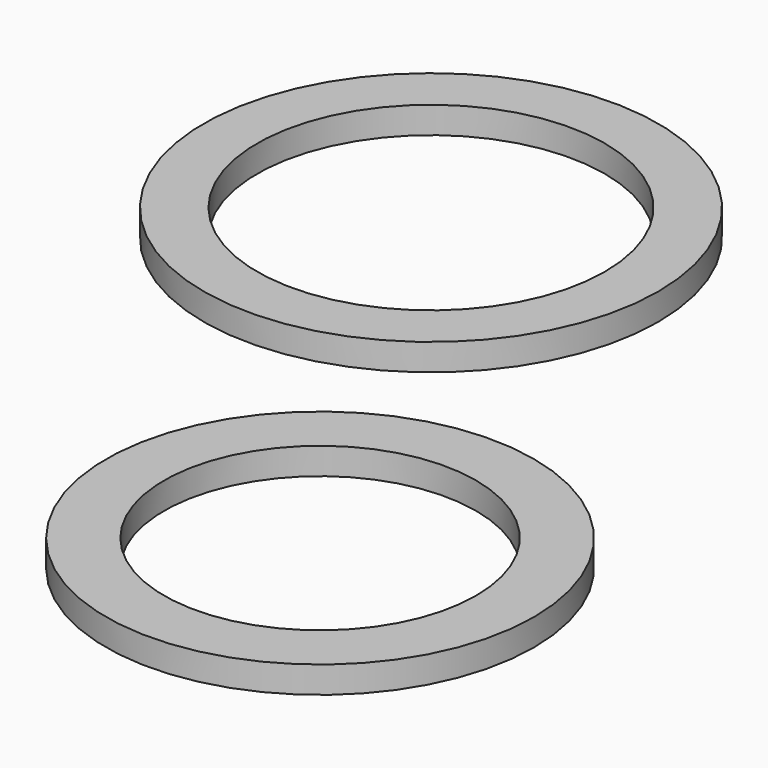
from build123d import *

# Parameters (mm, degrees)
F0_R     = 25.5
F0_R_2   = 19.5
F0_R_3   = 24
F0_R_4   = 17.5
F1_DEPTH = 3


with BuildPart() as f1:
    # F0 (on Top) → F1 (new body)
    with BuildSketch(Plane.XY):
        Circle(F0_R)
        Circle(F0_R_2, mode=Mode.SUBTRACT)
        with Locations((31.574734, -55.022243)):
            Circle(F0_R_3)
        with Locations((31.574734, -55.022243)):
            Circle(F0_R_4, mode=Mode.SUBTRACT)
    extrude(amount=F1_DEPTH)


solid = f1.part
